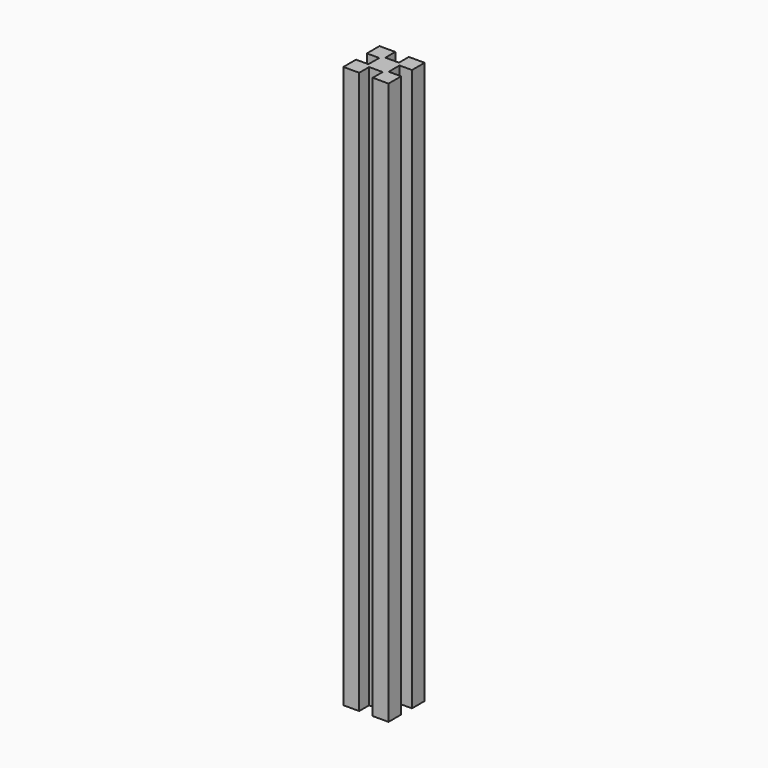
from build123d import *

# Parameters (mm, degrees)
F1_DEPTH = 249


with BuildPart() as f1:
    # F0 (on Top) → F1 (new body)
    with BuildSketch(Plane.XY):
        Polygon((-87.166744, -48.963183), (-87.166744, -55.963183), (-80.166744, -55.963183), (-80.166744, -50.463183), (-74.166744, -50.463183), (-74.166744, -55.963183), (-67.166744, -55.963183), (-67.166744, -48.963183), (-72.666744, -48.963183), (-72.666744, -42.963183), (-67.166744, -42.963183), (-67.166744, -35.963183), (-74.166744, -35.963183), (-74.166744, -41.463183), (-80.166744, -41.463183), (-80.166744, -35.963183), (-87.166744, -35.963183), (-87.166744, -42.963183), (-81.666744, -42.963183), (-81.666744, -48.963183), align=None)
    extrude(amount=F1_DEPTH)


solid = f1.part
